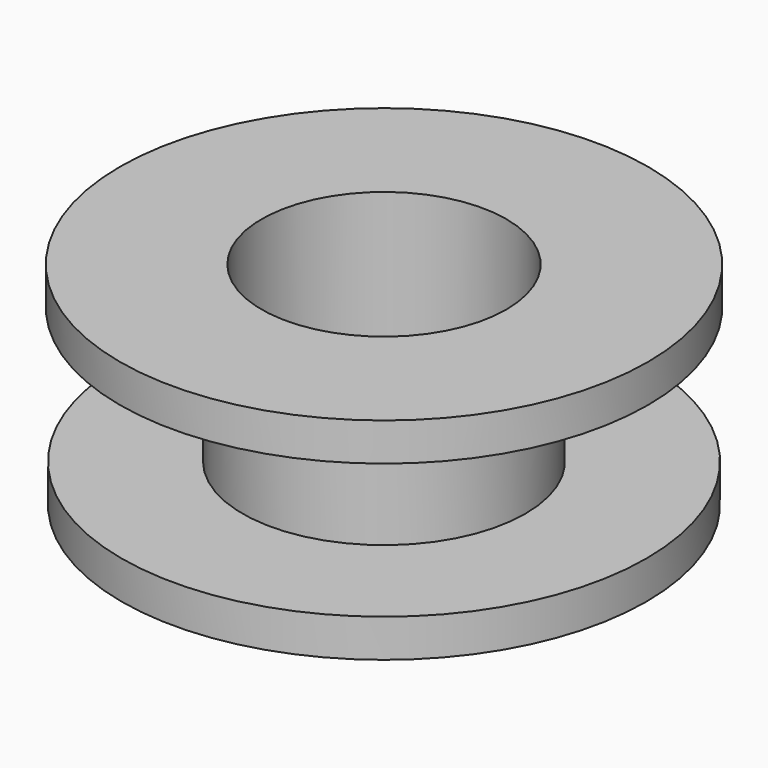
from build123d import *

# Parameters (mm, degrees)
F0_R     = 12.284045
F1_DEPTH = 1.778
F2_R     = 6.616688
F3_DEPTH = 8.128
F4_R     = 12.363201
F5_DEPTH = 1.778
F6_R     = 5.7287
F7_DEPTH = 9.907


with BuildPart() as f1:
    # F0 (on Top) → F1 (new body)
    with BuildSketch(Plane.XY):
        Circle(F0_R)
    extrude(amount=F1_DEPTH)

    # F2 (on Top) → F3 (join)
    with BuildSketch(Plane.XY):
        Circle(F2_R)
    extrude(amount=F3_DEPTH)

    # F4 (on face) → F5 (join)
    with BuildSketch(Plane.XY.offset(8.128)):
        Circle(F4_R)
    extrude(amount=F5_DEPTH)

    # F6 (on face) → F7 (cut, through all)
    with BuildSketch(Plane.XY.offset(9.906)):
        Circle(F6_R)
    extrude(amount=-F7_DEPTH, mode=Mode.SUBTRACT)


solid = f1.part
